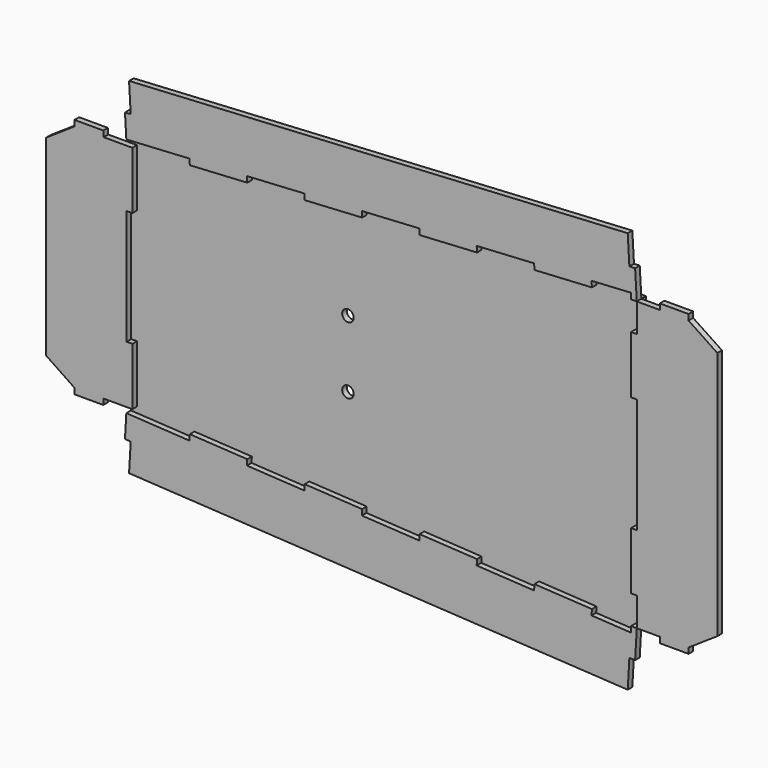
from build123d import *

# Parameters (mm, degrees)
F0_R     = 3
F1_DEPTH = 3
F2_DEPTH = 3
F3_DEPTH = 3
F4_DEPTH = 3
F5_DEPTH = 3


with BuildPart() as f1:
    # F0 (on Front) → F1 (new body)
    with BuildSketch(Plane.XZ):
        Polygon((-100.051005, 61.727827), (-100.224086, 64.727896), (-130.174284, 63), (-133.164225, 62.8263), (-133, 60), (-130, 60), (-130, 30), (-133, 30), (-133, 0), (-133, -30), (-130, -30), (-130, -60), (-133, -60), (-133.164295, -62.827499), (-100.224086, -64.727896), (-100.051005, -61.727827), (-70.100807, -63.455723), (-70.273596, -66.450743), (-40.323398, -68.178639), (-40.150609, -65.183619), (-10.20041, -66.911515), (-10.3732, -69.906535), (19.576998, -71.634431), (19.749788, -68.639411), (49.699986, -70.367307), (49.527197, -73.362327), (79.477395, -75.090223), (79.650184, -72.095203), (109.600383, -73.823099), (109.427593, -76.818119), (129.918192, -78.000269), (130, -75), (133, -75), (133, -60), (130, -60), (130, -30), (133, -30), (133, 0), (133, 30), (130, 30), (130, 60), (133, 60), (133, 75), (130, 75), (130.015937, 78.005908), (109.427593, 76.818119), (109.600383, 73.823099), (79.650184, 72.095203), (79.477395, 75.090223), (49.527197, 73.362327), (49.699986, 70.367307), (19.749788, 68.639411), (19.576998, 71.634431), (-10.3732, 69.906535), (-10.20041, 66.911515), (-40.150609, 65.183619), (-40.323398, 68.178639), (-70.273596, 66.450743), (-70.100807, 63.455723), align=None)
        with Locations((-20, -17.5)):
            Circle(F0_R, mode=Mode.SUBTRACT)
        with Locations((-20, 17.5)):
            Circle(F0_R, mode=Mode.SUBTRACT)
    extrude(amount=-F1_DEPTH)

    # F0 (on Front) → F2 (join)
    with BuildSketch(Plane.XZ):
        Polygon((-130.174284, 63), (-100.224086, 64.727896), (-100.051005, 61.727827), (-70.100807, 63.455723), (-70.273596, 66.450743), (-40.323398, 68.178639), (-40.150609, 65.183619), (-10.20041, 66.911515), (-10.3732, 69.906535), (19.576998, 71.634431), (19.749788, 68.639411), (49.699986, 70.367307), (49.527197, 73.362327), (79.477395, 75.090223), (79.650184, 72.095203), (109.600383, 73.823099), (109.427593, 76.818119), (130.015937, 78.005908), (130, 75), (133, 75), (132.140548, 89.975358), (129.145528, 89.802568), (128.28158, 104.777667), (-131.739237, 90.125849), (-130.875289, 75.15075), (-133.870123, 74.974742), (-133.164225, 62.8263), align=None)
    extrude(amount=F2_DEPTH)

    # F0 (on Front) → F3 (join)
    with BuildSketch(Plane.XZ):
        Polygon((-130, 60), (-133, 60), (-145, 60), (-145.173077, 63), (-160.173077, 63), (-160.173077, 60), (-175, 50), (-175, 0), (-175, -50), (-160.173077, -60), (-160.173077, -63), (-145.173077, -63), (-145, -60), (-133, -60), (-130, -60), (-130, -30), (-133, -30), (-133, 0), (-133, 30), (-130, 30), align=None)
    extrude(amount=F3_DEPTH)

    # F0 (on Front) → F4 (join)
    with BuildSketch(Plane.XZ):
        Polygon((-100.224086, -64.727896), (-133.164295, -62.827499), (-133.870123, -74.974742), (-130.875289, -75.15075), (-131.729099, -89.950129), (128.28158, -104.777667), (129.145528, -89.802568), (132.140548, -89.975358), (133, -75), (130, -75), (129.918192, -78.000269), (109.427593, -76.818119), (109.600383, -73.823099), (79.650184, -72.095203), (79.477395, -75.090223), (49.527197, -73.362327), (49.699986, -70.367307), (19.749788, -68.639411), (19.576998, -71.634431), (-10.3732, -69.906535), (-10.20041, -66.911515), (-40.150609, -65.183619), (-40.323398, -68.178639), (-70.273596, -66.450743), (-70.100807, -63.455723), (-100.051005, -61.727827), align=None)
    extrude(amount=F4_DEPTH)

    # F0 (on Front) → F5 (join)
    with BuildSketch(Plane.XZ):
        Polygon((145, 75), (133, 75), (133, 60), (130, 60), (130, 30), (133, 30), (133, 0), (133, -30), (130, -30), (130, -60), (133, -60), (133, -75), (145, -75), (145, -78), (160, -78), (160, -75.074691), (175, -65), (175, 0), (175, 65), (160, 75), (160, 78), (145, 78), align=None)
    extrude(amount=F5_DEPTH)


solid = f1.part
